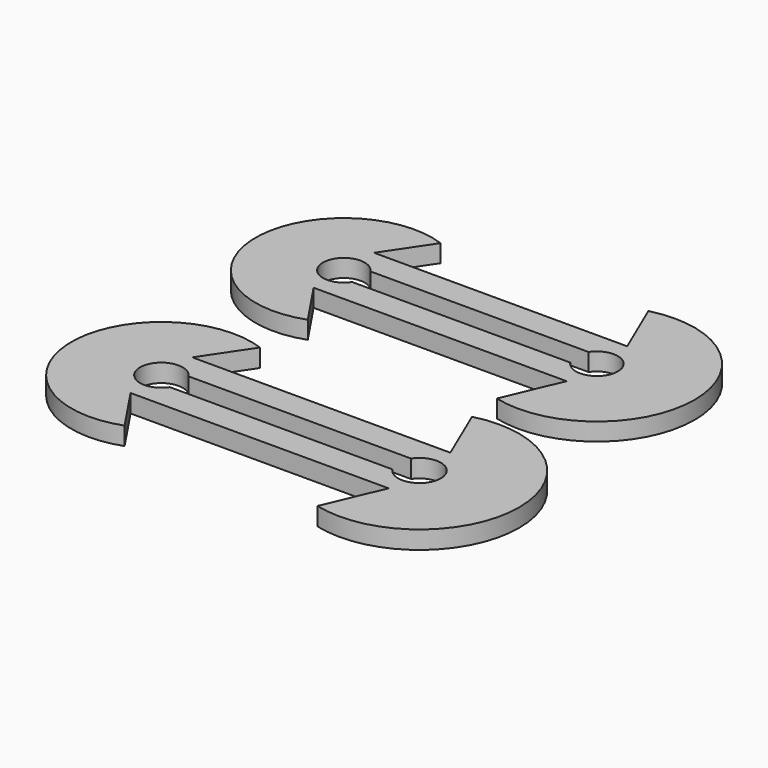
from build123d import *

# Parameters (mm, degrees)
F0_W     = 33.31900388
F0_H     = 3.471115022
F1_DEPTH = 2.33
F2_D     = 5.5
F3_SCALE = 1.02


with BuildPart() as f1:
    # F0 (on Top) → F1 (new body)
    with BuildSketch(Plane.XY):
        with BuildLine():
            Line((0, 4.9798060209), (3.9845076276, 10.9208206636))
            ThreePointArc((3.9845076276, 10.9208206636), (-11.625, 0), (3.9845076276, -10.9208206636))
            Line((3.9845076276, -10.9208206636), (0, -4.9798060209))
            Line((0, -4.9798060209), (33.31900388, -4.9798060209))
            Line((33.31900388, -4.9798060209), (33.31900388, -1.5086909989))
            Line((33.31900388, -1.5086909989), (0, -1.5086909989))
            Line((0, -1.5086909989), (0, 0))
            Line((0, 0), (0, 1.5086909989))
            Line((0, 1.5086909989), (0, 4.9798060209))
        make_face()
        with Locations((16.65950194, 3.2442485099)):
            Rectangle(F0_W, F0_H)
        with BuildLine():
            Line((30.1182252346, 12.4707915171), (33.31900388, 4.9798060209))
            Line((33.31900388, 4.9798060209), (33.31900388, 1.5086909989))
            Line((33.31900388, 1.5086909989), (33.31900388, 0))
            Line((33.31900388, 0), (33.31900388, -1.5086909989))
            Line((33.31900388, -1.5086909989), (33.31900388, -4.9798060209))
            Line((33.31900388, -4.9798060209), (30.1182252346, -12.4707915171))
            ThreePointArc((30.1182252346, -12.4707915171), (46.19400388, 0), (30.1182252346, 12.4707915171))
        make_face()
    extrude(amount=F1_DEPTH)

    # F2 (through all)
    with Locations(Plane(origin=(0, 0, 0), x_dir=(1, 0, 0), z_dir=(0, 0, -1))):
        with Locations((0, 0), (33.31900388, 0)):
            Hole(F2_D / 2)


with BuildPart() as f3_1:
    # F3: copy of F1
    add(f1.part.scale(F3_SCALE).moved(Location((0, -0.03017382, 0))))


with BuildPart() as f3_1_1:
    # F4: moved
    add(f3_1.part.moved(Location((0, -30, 0))))


solid = Compound([f1.part, f3_1_1.part])
